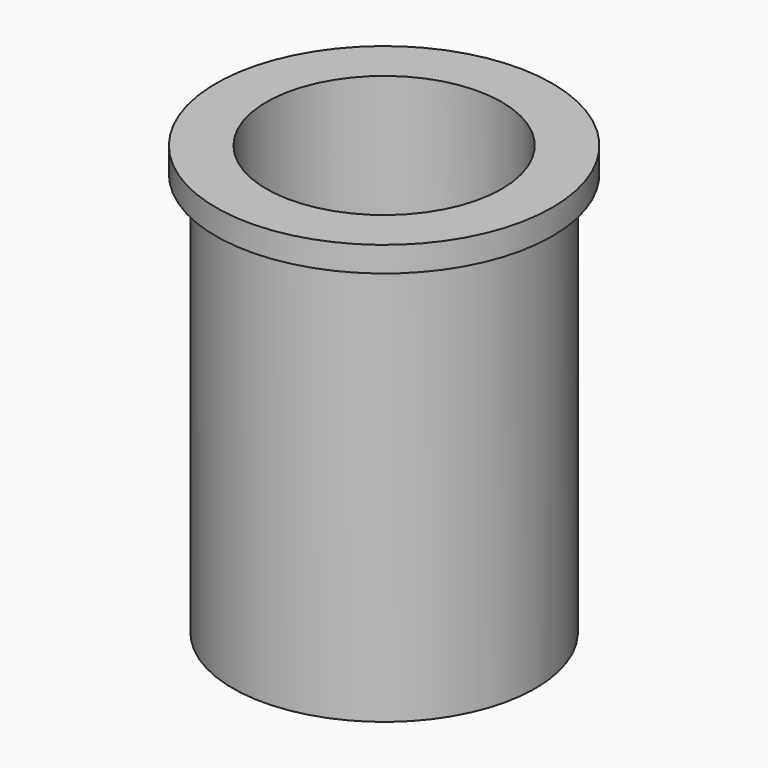
from build123d import *

# Parameters (mm, degrees)
F0_R     = 10
F1_DEPTH = 1.5
F2_R     = 9
F3_DEPTH = 24
F4_R     = 7
F5_DEPTH = 25.501


with BuildPart() as f1:
    # F0 (on Top) → F1 (new body)
    with BuildSketch(Plane.XY):
        Circle(F0_R)
    extrude(amount=-F1_DEPTH)

    # F2 (on face) → F3 (join)
    with BuildSketch(Plane(origin=(0, 0, -1.5), x_dir=(1, 0, 0), z_dir=(0, 0, -1))):
        Circle(F2_R)
    extrude(amount=F3_DEPTH)

    # F4 (on face) → F5 (cut, through all)
    with BuildSketch(Plane.XY):
        Circle(F4_R)
    extrude(amount=-F5_DEPTH, mode=Mode.SUBTRACT)


solid = f1.part
